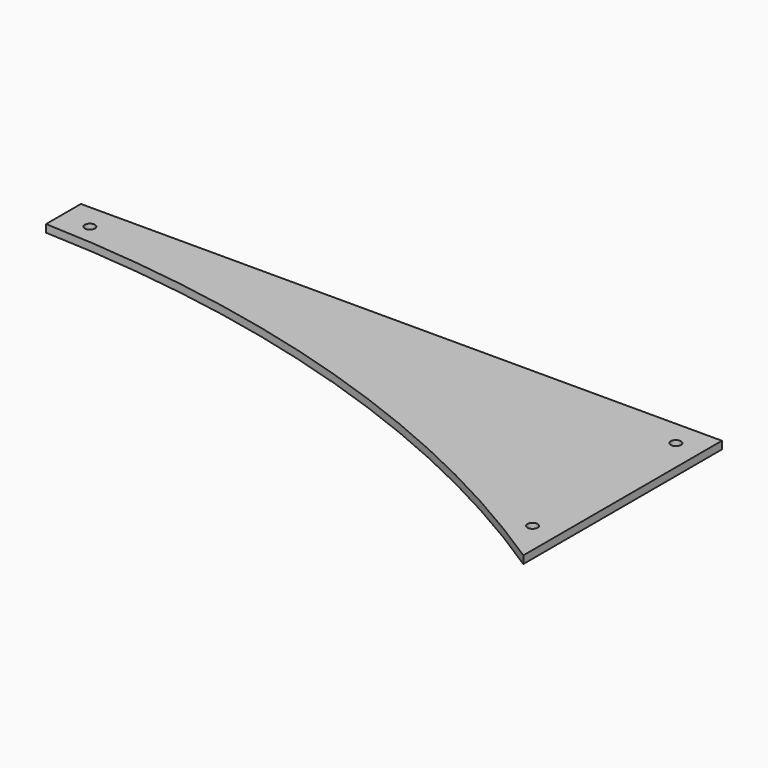
from build123d import *

# Parameters (mm, degrees)
F0_R     = 12.7
F1_DEPTH = 19.05


with BuildPart() as f1:
    # F0 (on Top) → F1 (new body)
    with BuildSketch(Plane.XY):
        with BuildLine():
            ThreePointArc((-1590.675, 508), (-760.306238, 363.691639), (0, 0))
            Line((0, 0), (0, 615.95))
            Line((0, 615.95), (-1590.675, 615.95))
            Line((-1590.675, 615.95), (-1590.675, 508))
        make_face()
        with Locations((-63.5, 107.95)):
            Circle(F0_R, mode=Mode.SUBTRACT)
        with Locations((-1517.65, 552.45)):
            Circle(F0_R, mode=Mode.SUBTRACT)
        with Locations((-63.5, 552.45)):
            Circle(F0_R, mode=Mode.SUBTRACT)
    extrude(amount=F1_DEPTH)


solid = f1.part
